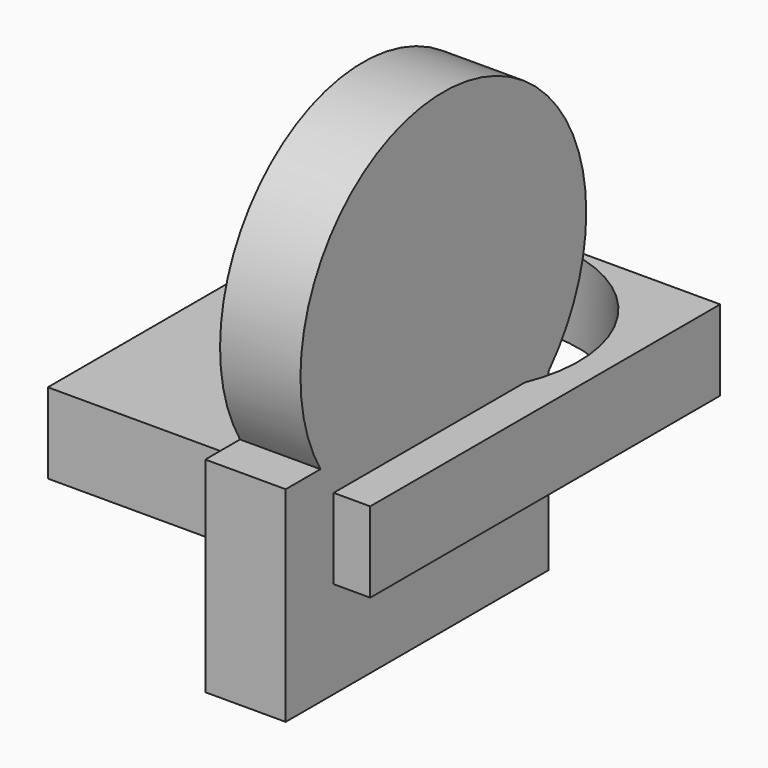
from build123d import *

# Parameters (mm, degrees)
F2_DEPTH = 25.4
F0_W     = 101.8392853439
F0_H     = 138.1853856146
F0_R     = 44.7370158625
F3_DEPTH = 25.4


with BuildPart() as f2:
    # F1 (on Right) → F2 (new body)
    with BuildSketch(Plane.YZ):
        with BuildLine():
            ThreePointArc((5.1872688346, 24.6414919816), (16.2456525152, 42.3484863922), (20.1080592166, 62.8645122051))
            ThreePointArc((20.1080592166, 62.8645122051), (-51.2286548469, 117.2754631001), (-84.8408640002, 34.0907424688))
            Line((-84.8408640002, 34.0907424688), (5.1872688346, 34.0907424688))
            Line((5.1872688346, 34.0907424688), (5.1872688346, 24.6414919816))
        make_face()
        with BuildLine():
            Line((5.1872688346, 34.0907424688), (-84.8408640002, 34.0907424688))
            ThreePointArc((-84.8408640002, 34.0907424688), (-42.2001575317, 6.7538301414), (5.1872688346, 24.6414919816))
            Line((5.1872688346, 24.6414919816), (5.1872688346, 34.0907424688))
        make_face()
        with BuildLine():
            ThreePointArc((5.1872688346, 24.6414919816), (-42.2001575317, 6.7538301414), (-84.8408640002, 34.0907424688))
            Line((-84.8408640002, 34.0907424688), (-98.5580086708, 34.0907424688))
            Line((-98.5580086708, 34.0907424688), (-98.5580086708, -30.617037788))
            Line((-98.5580086708, -30.617037788), (5.1872688346, -30.617037788))
            Line((5.1872688346, -30.617037788), (5.1872688346, 24.6414919816))
        make_face()
    extrude(amount=F2_DEPTH)

    # F0 (on Top) → F3 (join)
    with BuildSketch(Plane.XY):
        with Locations((-13.9607731253, -10.5434413999)):
            Rectangle(F0_W, F0_H)
        with Locations((-15.9663036466, 12.9214562476)):
            Circle(F0_R, mode=Mode.SUBTRACT)
    extrude(amount=F3_DEPTH)


solid = f2.part
